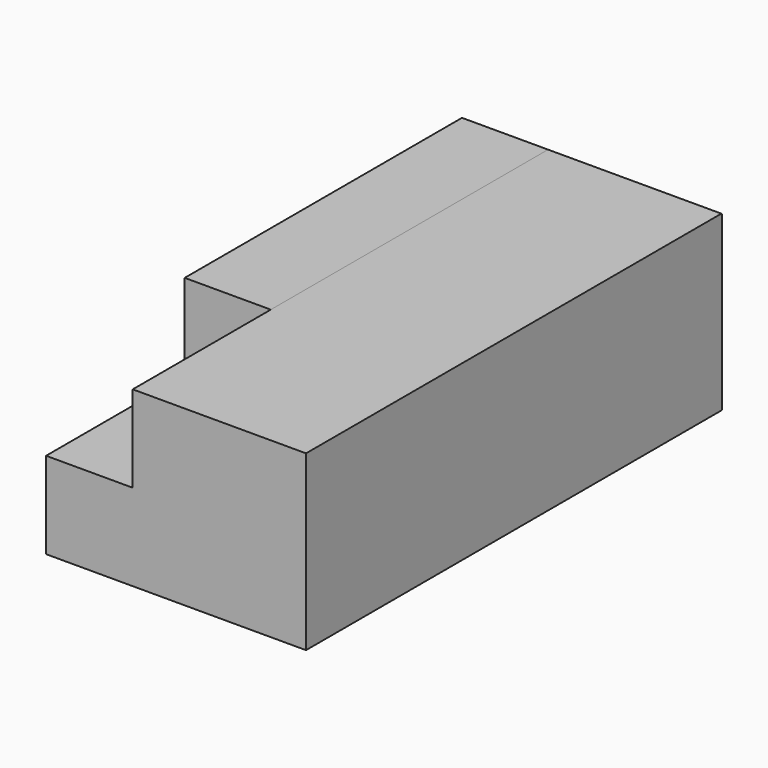
from build123d import *

# Parameters (mm, degrees)
F2_DEPTH = 152.146
F3_DEPTH = 76.2


with BuildPart() as f2:
    # F0 (on Front) → F2 (new body)
    with BuildSketch(Plane.XZ):
        Polygon((0, 25.4), (0, 0), (76.2, 0), (76.2, 50.8), (25.4, 50.8), (25.4, 25.4), align=None)
    extrude(amount=-F2_DEPTH)

    # F1 (on Right) → F3 (join)
    with BuildSketch(Plane.YZ):
        Polygon((50.8, 25.259955), (0, 25.259955), (0, 0), (152.4, 0), (152.4, 50.659955), (50.8, 50.659955), align=None)
    extrude(amount=F3_DEPTH)


solid = f2.part
